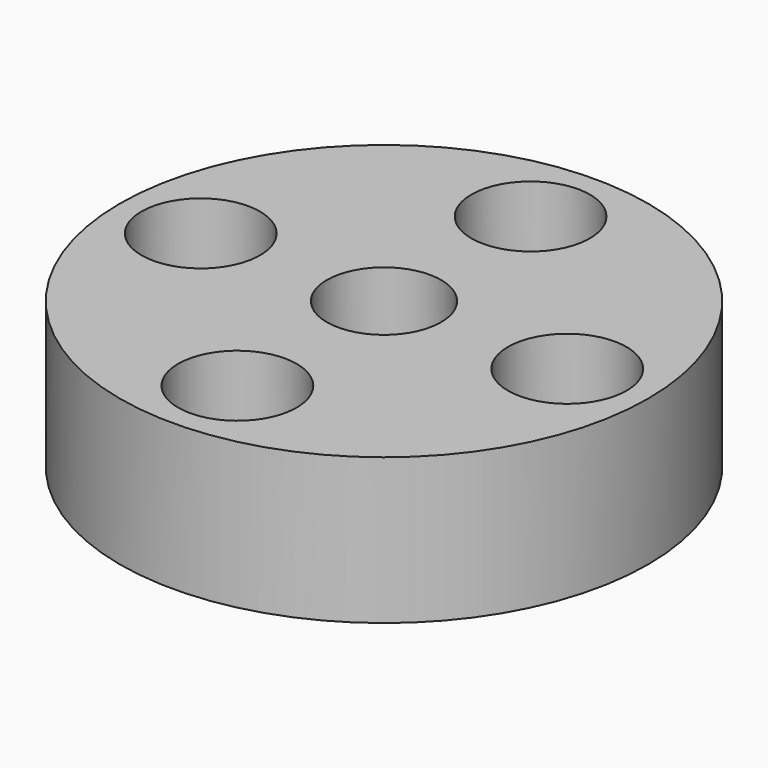
from build123d import *

# Parameters (mm, degrees)
F0_R     = 12.25
F1_DEPTH = 6.77
F2_D     = 5.5
F3_D     = 5.3


with BuildPart() as f1:
    # F0 (on Top) → F1 (new body)
    with BuildSketch(Plane.XY):
        Circle(F0_R)
    extrude(amount=-F1_DEPTH)

    # F2 (through all)
    with Locations(Plane.XY):
        with Locations((0, 8.5), (-8.5, 0), (0, -8.5), (8.5, 0)):
            Hole(F2_D / 2)

    # F3 (through all)
    with Locations(Plane.XY):
        with Locations((0, 0)):
            Hole(F3_D / 2)


solid = f1.part
